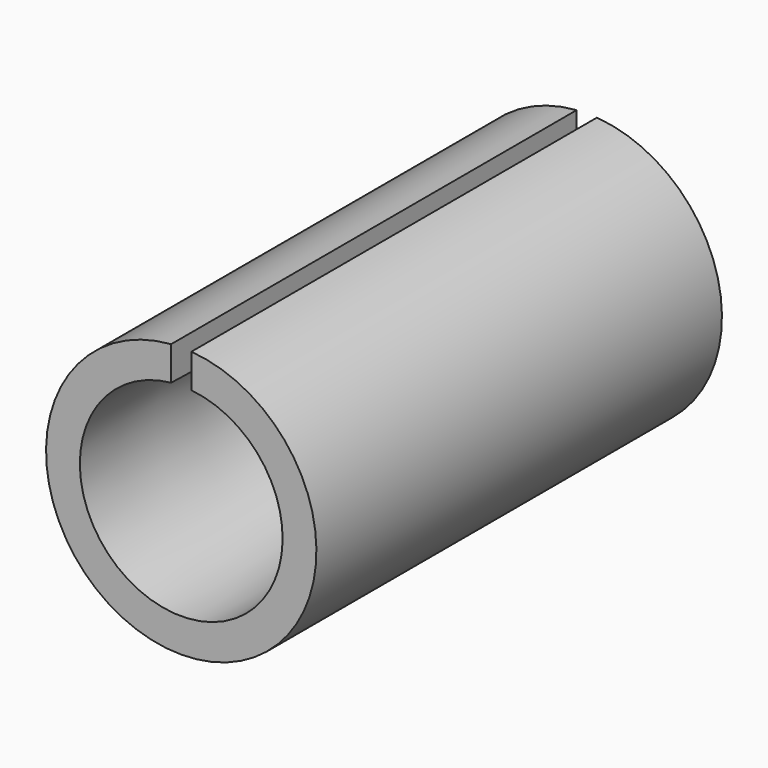
from build123d import *

# Parameters (mm, degrees)
F0_R     = 20
F0_R_2   = 13
F1_DEPTH = 75
F4_W     = 3
F4_H     = 9
F5_DEPTH = 75


with BuildPart() as f1:
    # F0 (on Front) → F1 (new body)
    with BuildSketch(Plane.XZ):
        Circle(F0_R)
        Circle(F0_R_2, mode=Mode.SUBTRACT)
    extrude(amount=F1_DEPTH)

    # F2 (on Right) → F3 (revolve, cut)
    with BuildSketch(Plane.YZ):
        Polygon((0, 13), (-75, 15), (-75, 13), align=None)
    revolve(axis=Axis((0, 0, 0), (0, -1, 0)), mode=Mode.SUBTRACT)

    # F4 (on face) → F5 (cut)
    with BuildSketch(Plane(origin=(0, 0, 0), x_dir=(-1, 0, 0), z_dir=(0, 1, 0))):
        with Locations((0, 16.5)):
            Rectangle(F4_W, F4_H)
    extrude(amount=-F5_DEPTH, mode=Mode.SUBTRACT)


solid = f1.part
